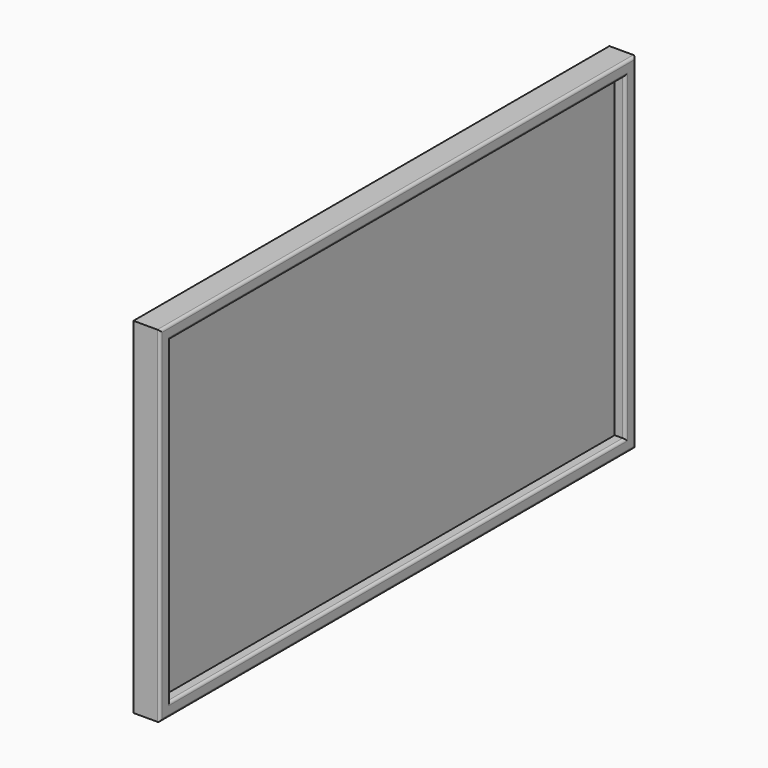
from build123d import *

# Parameters (mm, degrees)
SKETCH625_W             = 1120
SKETCH625_H             = 650
PAD299_DEPTH            = 50
SKETCH626_W             = 1070
SKETCH626_H             = 600
POCKET007_DEPTH         = 20
FILLET210_R             = 5
BODY126_PLACEMENT_ANGLE = 90


with BuildPart() as part:
    # Sketch625 → Pad299 (new body)
    with BuildSketch(Plane.XZ):
        with Locations((560, 325)):
            Rectangle(SKETCH625_W, SKETCH625_H)
    extrude(amount=PAD299_DEPTH)

    # Sketch626 (on Face6 of Pad299) → Pocket007 (cut)
    with BuildSketch(Plane.XZ.offset(50)):
        with Locations((560, 325)):
            Rectangle(SKETCH626_W, SKETCH626_H)
    extrude(amount=-POCKET007_DEPTH, mode=Mode.SUBTRACT)

    # Fillet210
    fillet210_edges = [part.edges().sort_by_distance(p)[0] for p in [
        (560, -50, 0),
        (0, -50, 325),
        (1120, -50, 325),
        (560, -50, 650),
        (25, -50, 325),
        (560, -50, 25),
        (1095, -50, 325),
        (560, -50, 625),
    ]]
    fillet(fillet210_edges, radius=FILLET210_R)


with BuildPart() as part_1:
    # Body126 placement: moved
    add(part.part.moved(Location((1641, 1679, 1299))).rotate(Axis((1641, 1679, 1299), (0, 0, 1)), BODY126_PLACEMENT_ANGLE))


solid = part_1.part
